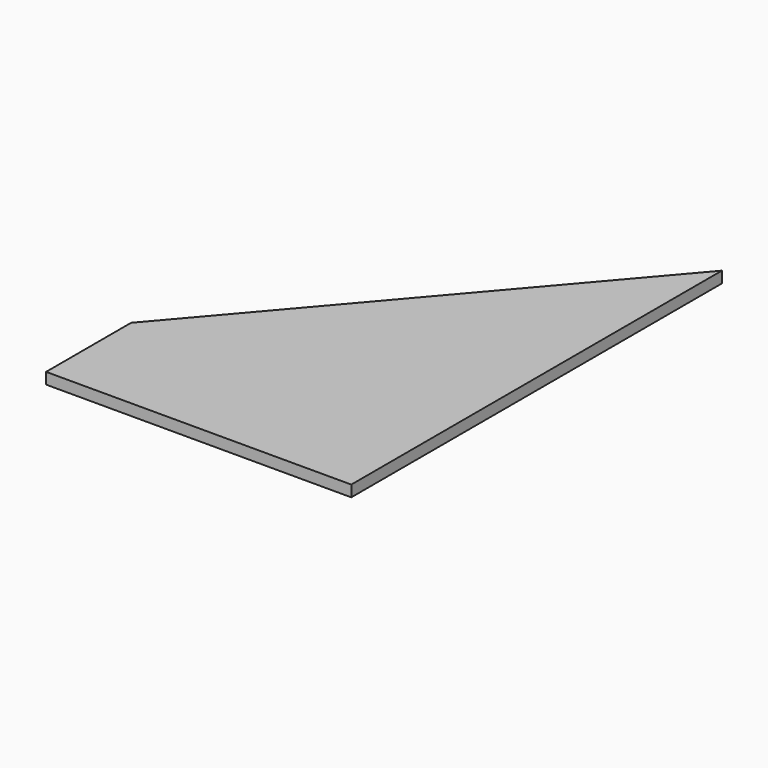
from build123d import *

# Parameters (mm, degrees)
PAD_DEPTH = 19


with BuildPart() as part:
    # Sketch → Pad (new body)
    with BuildSketch(Plane.XY):
        Polygon((0, 0), (0, 781.837366), (-515, 179.234274), (-515, 0), align=None)
    extrude(amount=PAD_DEPTH)


solid = part.part
